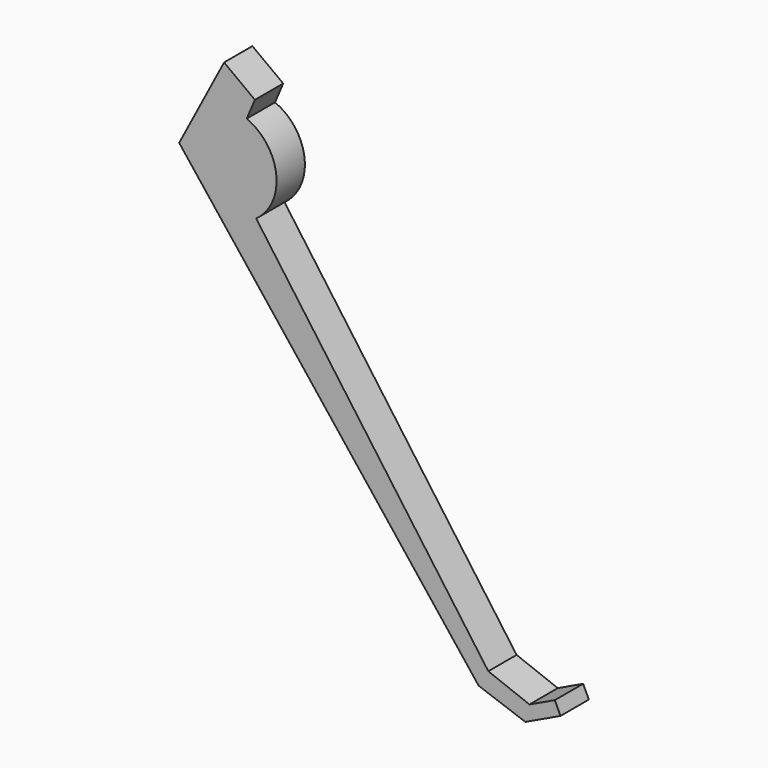
from build123d import *

# Parameters (mm, degrees)
F1_DEPTH = 12.7


with BuildPart() as f1:
    # F0 (on Front) → F1 (new body)
    with BuildSketch(Plane.XZ):
        with BuildLine():
            Line((-32.091238, 46.31887), (-43.157175, 54.539282))
            Line((-43.157175, 54.539282), (-59.281833, 23.870818))
            Line((-59.281833, 23.870818), (48.215881, -112.714514))
            Line((48.215881, -112.714514), (64.972878, -118.721738))
            Line((64.972878, -118.721738), (77.619664, -112.714514))
            Line((77.619664, -112.714514), (75.567222, -108.393584))
            Line((75.567222, -108.393584), (66.470528, -112.714514))
            Line((66.470528, -112.714514), (51.693749, -107.023455))
            Line((51.693749, -107.023455), (-31.634918, 8.961036))
            ThreePointArc((-31.634918, 8.961036), (-24.419928, 25.180798), (-35.020864, 39.420072))
            Line((-35.020864, 39.420072), (-32.091238, 46.31887))
        make_face()
    extrude(amount=F1_DEPTH)


solid = f1.part
